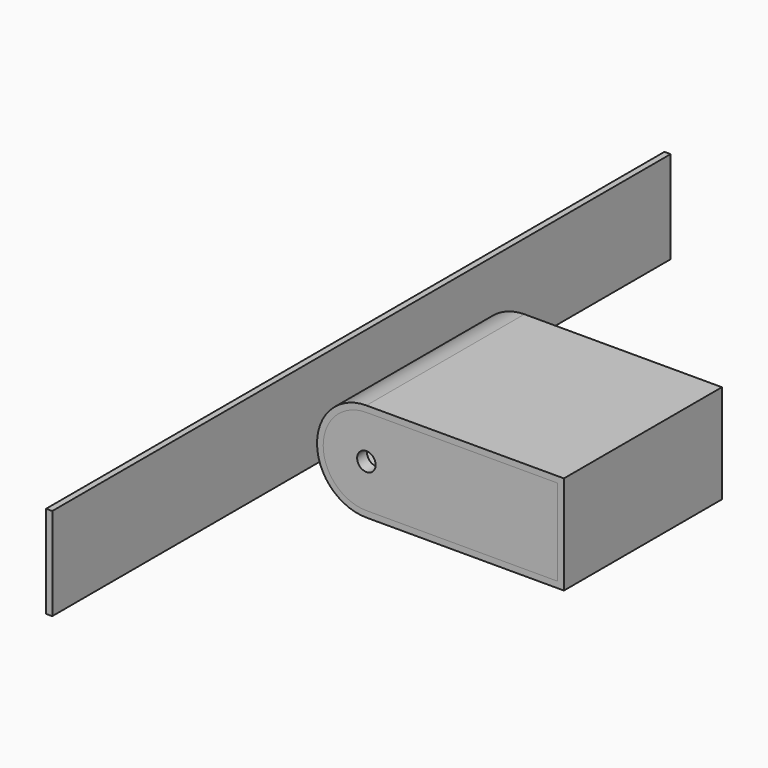
from build123d import *

# Parameters (mm, degrees)
F1_DEPTH  = 101.6
F0_R      = 4.7625
F2_DEPTH  = 6.35
F4_DEPTH  = 6.35
F5_W      = 33
F5_H      = 71
F5_R      = 1.5899856631
F5_W_2    = 3.4081563354
F5_H_2    = 8.4805563092
F5_W_3    = 3.6386847496
F5_W_4    = 32.9946
F6_DEPTH  = 2.54
F7_DEPTH  = 152.4
F9_W      = 397.6023276476
F9_H      = 47.625
F10_DEPTH = 3.175


with BuildPart() as f1:
    # F0 (on Front) → F1 (new body)
    with BuildSketch(Plane.XZ):
        with BuildLine():
            Line((-101.6, 0), (0, 0))
            Line((0, 0), (0, 50.8))
            Line((0, 50.8), (-101.6, 50.8))
            ThreePointArc((-101.6, 50.8), (-127, 25.4), (-101.6, 0))
        make_face()
        with BuildLine():
            ThreePointArc((-101.6, 3.175), (-123.825, 25.4), (-101.6, 47.625))
            Line((-101.6, 47.625), (-3.175, 47.625))
            Line((-3.175, 47.625), (-3.175, 3.175))
            Line((-3.175, 3.175), (-101.6, 3.175))
        make_face(mode=Mode.SUBTRACT)
    extrude(amount=-F1_DEPTH)

    # F5 (on face) → F6 (join)
    with BuildSketch(Plane(origin=(0, 0, 0), x_dir=(1, 0, 0), z_dir=(0, 0, -1))):
        with Locations((-76.0293341279, -51.0171295628)):
            Rectangle(F5_W, F5_H)
        with Locations((-80.857872963, -76.7393182069)):
            Circle(F5_R, mode=Mode.SUBTRACT)
        with Locations((-71.3884010911, -76.8319158852)):
            Circle(F5_R, mode=Mode.SUBTRACT)
        with Locations((-84.5616646111, -61.3264138848)):
            Rectangle(F5_W_2, F5_H_2, mode=Mode.SUBTRACT)
        with Locations((-75.8294463158, -69.2681442052)):
            Circle(F5_R, mode=Mode.SUBTRACT)
        with Locations((-66.9453144073, -61.3264138848)):
            Rectangle(F5_W_3, F5_H_2, mode=Mode.SUBTRACT)
        with Locations((-84.5616646111, -40.7078452408)):
            Rectangle(F5_W_2, F5_H_2, mode=Mode.SUBTRACT)
        with Locations((-66.9453144073, -40.7078452408)):
            Rectangle(F5_W_3, F5_H_2, mode=Mode.SUBTRACT)
        with Locations((-75.8294463158, -32.7661149204)):
            Circle(F5_R, mode=Mode.SUBTRACT)
        with Locations((-80.857872963, -25.2949409187)):
            Circle(F5_R, mode=Mode.SUBTRACT)
        with Locations((-71.3884010911, -25.2023432404)):
            Circle(F5_R, mode=Mode.SUBTRACT)
        with Locations((-31.7460363795, -51.0171295628)):
            Rectangle(F5_W_4, F5_H)
        with Locations((-37.169872963, -76.7393182069)):
            Circle(F5_R, mode=Mode.SUBTRACT)
        with Locations((-27.7004010911, -76.8319158852)):
            Circle(F5_R, mode=Mode.SUBTRACT)
        with Locations((-32.1414463158, -69.2681442052)):
            Circle(F5_R, mode=Mode.SUBTRACT)
        with Locations((-40.8736646111, -61.3264138848)):
            Rectangle(F5_W_2, F5_H_2, mode=Mode.SUBTRACT)
        with Locations((-23.2573144073, -61.3264138848)):
            Rectangle(F5_W_3, F5_H_2, mode=Mode.SUBTRACT)
        with Locations((-40.8736646111, -40.7078452408)):
            Rectangle(F5_W_2, F5_H_2, mode=Mode.SUBTRACT)
        with Locations((-32.1414463158, -32.7661149204)):
            Circle(F5_R, mode=Mode.SUBTRACT)
        with Locations((-23.2573144073, -40.7078452408)):
            Rectangle(F5_W_3, F5_H_2, mode=Mode.SUBTRACT)
        with Locations((-37.169872963, -25.2949409187)):
            Circle(F5_R, mode=Mode.SUBTRACT)
        with Locations((-27.7004010911, -25.2023432404)):
            Circle(F5_R, mode=Mode.SUBTRACT)
    extrude(amount=F6_DEPTH)

    # F0 (on Front) → F7 (cut)
    with BuildSketch(Plane.XZ):
        with Locations((-101.6, 25.4)):
            Circle(F0_R)
    extrude(amount=F7_DEPTH, mode=Mode.SUBTRACT)


with BuildPart() as f2:
    # F0 (on Front) → F2 (new body)
    with BuildSketch(Plane.XZ):
        with BuildLine():
            Line((-3.175, 47.625), (-101.6, 47.625))
            ThreePointArc((-101.6, 47.625), (-123.825, 25.4), (-101.6, 3.175))
            Line((-101.6, 3.175), (-3.175, 3.175))
            Line((-3.175, 3.175), (-3.175, 47.625))
        make_face()
        with Locations((-101.6, 25.4)):
            Circle(F0_R, mode=Mode.SUBTRACT)
    extrude(amount=-F2_DEPTH)


with BuildPart() as f4:
    # F3 (on face) → F4 (new body)
    with BuildSketch(Plane(origin=(0, 101.6, 0), x_dir=(-1, 0, 0), z_dir=(0, 1, 0))):
        with BuildLine():
            ThreePointArc((101.6, 3.175), (123.825, 25.4), (101.6, 47.625))
            Line((101.6, 47.625), (3.175, 47.625))
            Line((3.175, 47.625), (3.175, 3.175))
            Line((3.175, 3.175), (101.6, 3.175))
        make_face()
    extrude(amount=-F4_DEPTH)


with BuildPart() as f10:
    # F9 (on offset) → F10 (new body)
    with BuildSketch(Plane.YZ.offset(-131.064)):
        with Locations((29.6614095569, 39.3848596141)):
            Rectangle(F9_W, F9_H)
    extrude(amount=F10_DEPTH)


solid = Compound([f1.part, f2.part, f4.part, f10.part])
